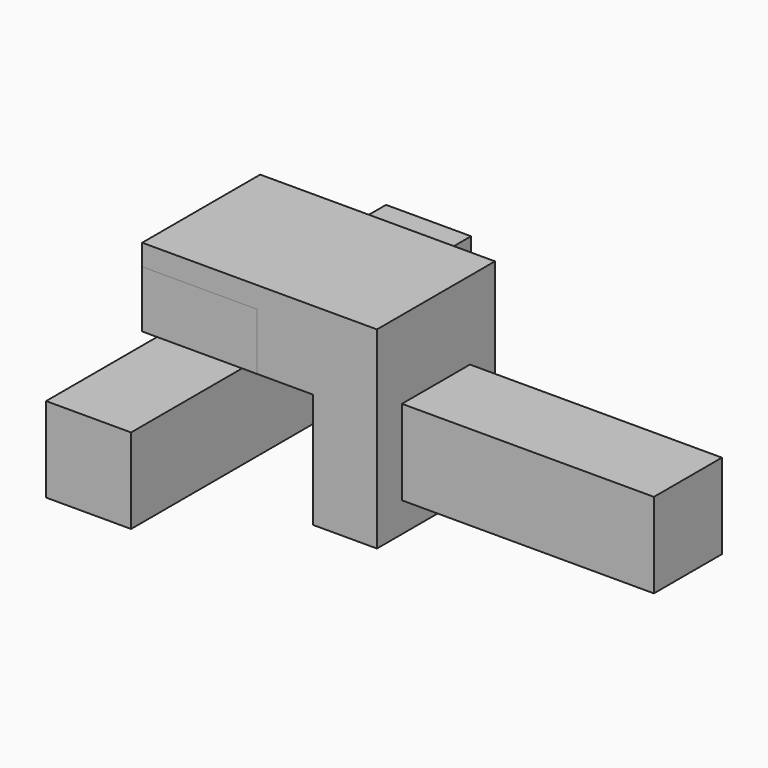
from build123d import *

# Parameters (mm, degrees)
F0_W          = 20
F0_H          = 100
F1_DEPTH      = 20
F0_W_2        = 74.2924562655
F0_H_2        = 20
F2_W          = 3.5
F2_H          = 34.7
F2_W_2        = 20
F3_DEPTH      = 13.4
F5_DEPTH      = 17.35
F5_DEPTH_BACK = 17.35


with BuildPart() as f1:
    # F0 (on Top) → F1 (new body)
    with BuildSketch(Plane.XY):
        with Locations((-33.8030671701, 0)):
            Rectangle(F0_W, F0_H)
    extrude(amount=F1_DEPTH)


with BuildPart() as f1b:
    # F0 (on Top) → F1, piece 2 (new body)
    with BuildSketch(Plane.XY):
        with Locations((30.0884444732, 0)):
            Rectangle(F0_W_2, F0_H_2)
    extrude(amount=F1_DEPTH)


with BuildPart() as f3:
    # F2 (on face) → F3 (new body)
    with BuildSketch(Plane.XY.offset(20)):
        with Locations((-45.5530671701, 0)):
            Rectangle(F2_W, F2_H)
        with Locations((-33.8030671701, 0)):
            Rectangle(F2_W_2, F2_H)
        with Locations((-22.0530671701, 0)):
            Rectangle(F2_W, F2_H)
    extrude(amount=F3_DEPTH)


with BuildPart() as f5:
    # F4 (on Front) → F5 (new body, two sides)
    with BuildSketch(Plane.XZ) as f5_sk:
        Polygon((7.9422163405, 38.4), (-47.3030671701, 38.4), (-47.3030671701, 33.4), (-20.3030671701, 33.4), (-20.3030671701, 20), (-7.0577836595, 20), (-7.0577836595, -7), (7.9422163405, -7), align=None)
    extrude(amount=F5_DEPTH)
    extrude(f5_sk.sketch, amount=-F5_DEPTH_BACK)

    # F6: cut F1b
    add(f1b.part, mode=Mode.SUBTRACT)


solid = Compound([f1.part, f1b.part, f3.part, f5.part])
